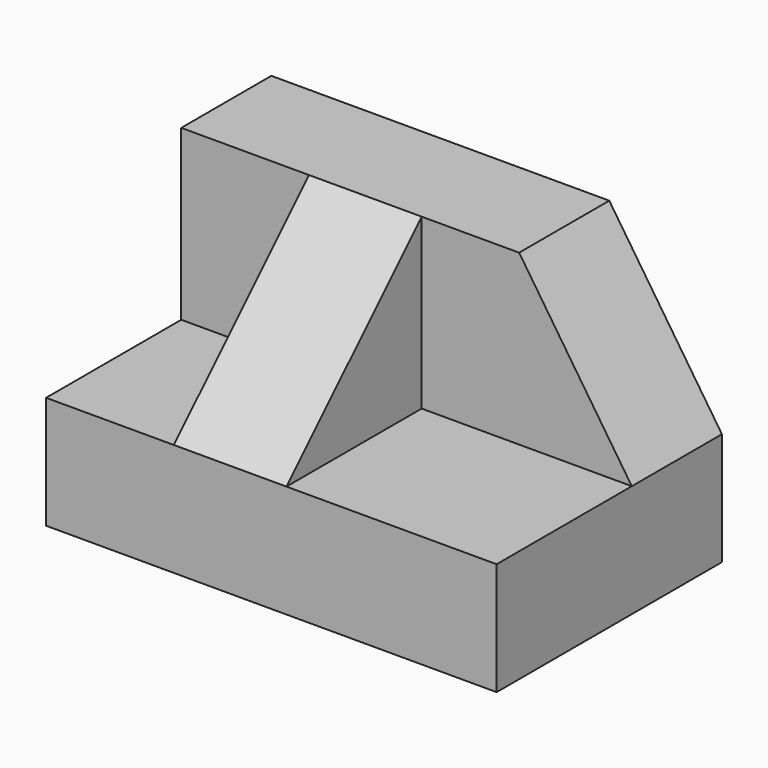
from build123d import *

# Parameters (mm, degrees)
F0_W     = 50.8
F0_H     = 31.75
F1_DEPTH = 12.7
F2_W     = 50.8
F2_H     = 12.7
F3_DEPTH = 19.05
F5_DEPTH = 12.7
F6_W     = 12.7
F6_H     = 19.05
F7_DEPTH = 19.05
F9_DEPTH = 25.4


with BuildPart() as f1:
    # F0 (on Top) → F1 (new body)
    with BuildSketch(Plane.XY):
        with Locations((25.4, 15.875)):
            Rectangle(F0_W, F0_H)
    extrude(amount=F1_DEPTH)

    # F2 (on face) → F3 (join)
    with BuildSketch(Plane.XY.offset(12.7)):
        with Locations((25.4, 25.4)):
            Rectangle(F2_W, F2_H)
    extrude(amount=F3_DEPTH)

    # F4 (on face) → F5 (cut)
    with BuildSketch(Plane.XZ.offset(-19.05)):
        Polygon((38.1, 31.75), (50.8, 12.7), (50.8, 31.75), align=None)
    extrude(amount=-F5_DEPTH, mode=Mode.SUBTRACT)

    # F6 (on face) → F7 (join)
    with BuildSketch(Plane.XZ.offset(-19.05)):
        with Locations((20.755693, 22.225)):
            Rectangle(F6_W, F6_H)
    extrude(amount=F7_DEPTH)

    # F8 (on face) → F9 (cut)
    with BuildSketch(Plane.YZ.offset(27.105693)):
        Polygon((0, 12.7), (19.05, 31.75), (0, 31.75), align=None)
    extrude(amount=-F9_DEPTH, mode=Mode.SUBTRACT)


solid = f1.part
